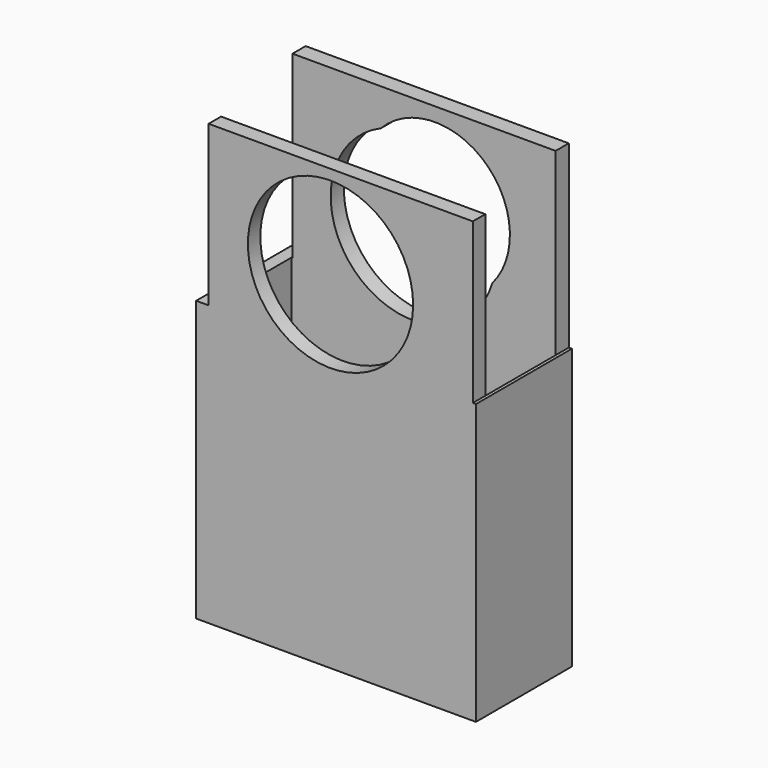
from build123d import *

# Parameters (mm, degrees)
F0_W      = 177.8
F0_H      = 177.8
F1_DEPTH  = 76.2
F2_W      = 167.9080887029
F2_H      = 55.88
F3_DEPTH  = 176.276
F4_W      = 167.9080887029
F4_H      = 9.8836272268
F5_DEPTH  = 101.6
F6_W      = 167.2196879183
F6_H      = 10.4363727732
F7_DEPTH  = 114.3
F8_R      = 47.6089031409
F9_DEPTH  = 41.91
F10_R     = 52.5050220685
F11_DEPTH = 159.004


with BuildPart() as f1:
    # F0 (on Front) → F1 (new body)
    with BuildSketch(Plane.XZ):
        with Locations((-48.9930282295, -12.3306500904)):
            Rectangle(F0_W, F0_H)
    extrude(amount=F1_DEPTH)

    # F2 (on face) → F3 (cut)
    with BuildSketch(Plane.XY.offset(76.5693499096)):
        with Locations((-46.0179038346, -38.3763727732)):
            Rectangle(F2_W, F2_H)
    extrude(amount=-F3_DEPTH, mode=Mode.SUBTRACT)

    # F4 (on face) → F5 (join)
    with BuildSketch(Plane.XY.offset(76.5693499096)):
        with Locations((-46.0179038346, -71.2581863866)):
            Rectangle(F4_W, F4_H)
    extrude(amount=F5_DEPTH)

    # F6 (on face) → F7 (join)
    with BuildSketch(Plane.XY.offset(76.5693499096)):
        with Locations((-45.6737034423, -5.2181863866)):
            Rectangle(F6_W, F6_H)
    extrude(amount=F7_DEPTH)

    # F8 (on face) → F9 (cut)
    with BuildSketch(Plane(origin=(0, 0, 0), x_dir=(-1, 0, 0), z_dir=(0, 1, 0))):
        with Locations((38.7143976986, 134.4432979822)):
            Circle(F8_R)
    extrude(amount=-F9_DEPTH, mode=Mode.SUBTRACT)

    # F10 (on face) → F11 (cut)
    with BuildSketch(Plane.XZ.offset(76.2)):
        with Locations((-52.5096356869, 119.113817811)):
            Circle(F10_R)
    extrude(amount=-F11_DEPTH, mode=Mode.SUBTRACT)


solid = f1.part
